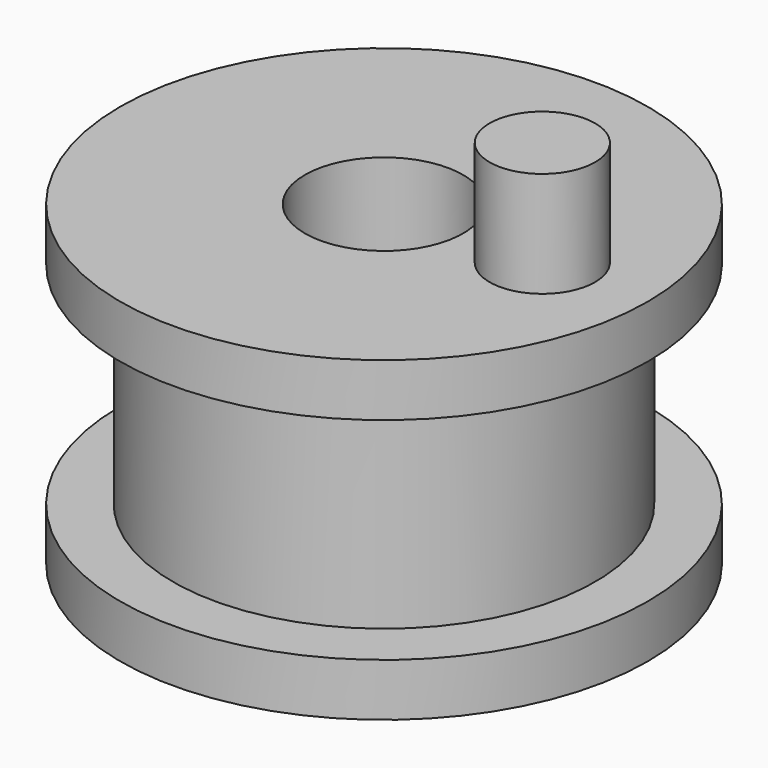
from build123d import *

# Parameters (mm, degrees)
F3_D     = 9.525
F4_R     = 3.175
F5_DEPTH = 6.35


with BuildPart() as f1:
    # F0 (on Front) → F1 (revolve)
    with BuildSketch(Plane.XZ):
        Polygon((0, -4.699002), (0, -1.524002), (-15.875, -1.524002), (-15.875, -4.699002), (-12.7, -4.699002), (-12.7, -17.399002), (-15.875, -17.399002), (-15.875, -20.574002), (0, -20.574002), (0, -17.399002), align=None)
    revolve(axis=Axis((0, 0, -11.049002), (0, 0, -1)))

    # F3 (through all)
    with Locations(Plane.XY.offset(-1.524002)):
        with Locations((0, 0)):
            Hole(F3_D / 2)

    # F4 (on face) → F5 (join)
    with BuildSketch(Plane.XY.offset(-1.524002)):
        with Locations((9.525, 0)):
            Circle(F4_R)
    extrude(amount=F5_DEPTH)


solid = f1.part
